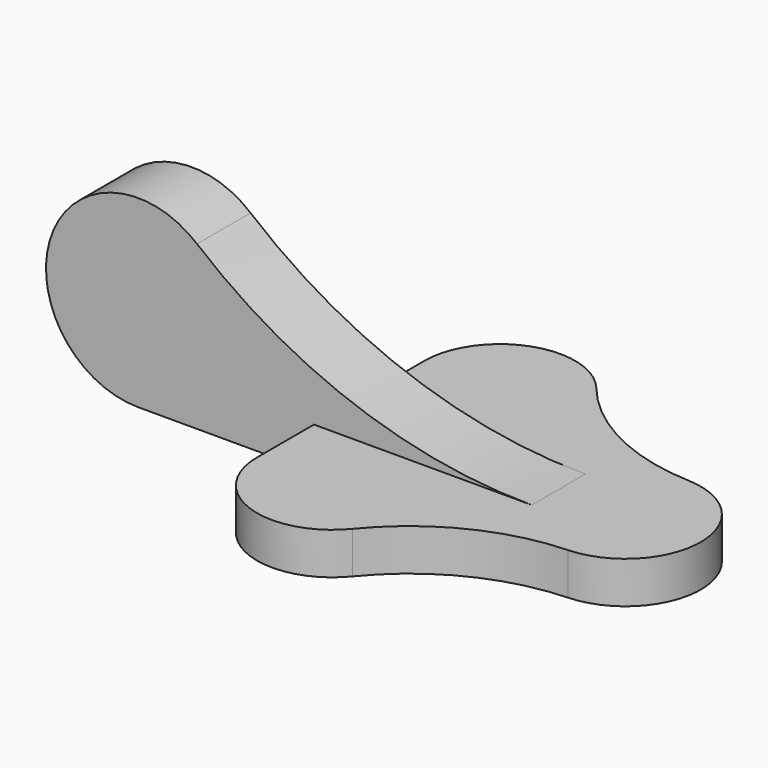
from build123d import *

# Parameters (mm, degrees)
F2_DEPTH = 10
F3_DEPTH = 8


with BuildPart() as f2:
    # F0 (on Top) → F2 (new body)
    with BuildSketch(Plane.XY):
        with BuildLine():
            ThreePointArc((0.7207237993, 17.9855652456), (-19.6379454221, 23.2241091558), (-36.0439820831, 36.3679181868))
            ThreePointArc((-36.0439820831, 36.3679181868), (-56.0328963813, 41.9588962274), (-68, 25))
            Line((-68, 25), (-68, -25))
            ThreePointArc((-68, -25), (-56.0328963813, -41.9588962274), (-36.0439820831, -36.3679181868))
            ThreePointArc((-36.0439820831, -36.3679181868), (-19.6379454221, -23.2241091558), (0.7207237993, -17.9855652456))
            ThreePointArc((0.7207237993, -17.9855652456), (18, 0), (0.7207237993, 17.9855652456))
        make_face()
    extrude(amount=F2_DEPTH)

    # F1 (on Front) → F3 (join, symmetric)
    with BuildSketch(Plane.XZ):
        with BuildLine():
            ThreePointArc((-15.9787258117, 10), (-58.4872283625, 17.4498948921), (-95.928788897, 38.9115646259))
            ThreePointArc((-95.928788897, 38.9115646259), (-130.688818499, 29.4814964489), (-110, 0))
            Line((-110, 0), (0, 0))
            Line((0, 0), (0, 10))
            Line((0, 10), (-15.9787258117, 10))
        make_face()
    extrude(amount=F3_DEPTH, both=True)


solid = f2.part
